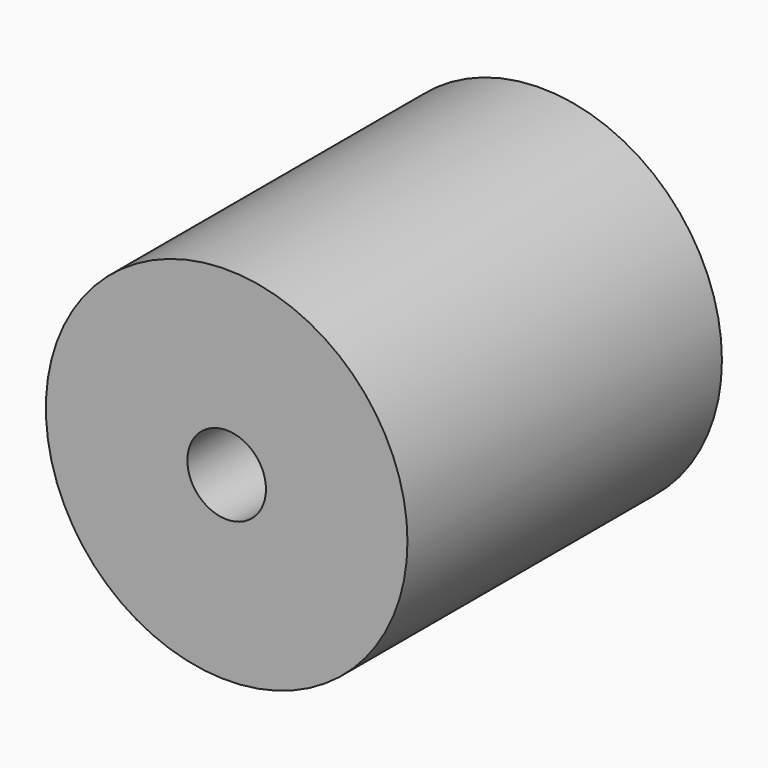
from build123d import *

# Parameters (mm, degrees)
F0_R     = 29.21
F1_DEPTH = 31.75
F0_R_2   = 6.35
F2_DEPTH = 31.75
F3_DEPTH = 31.75


with BuildPart() as f1:
    # F0 (on Front) → F1 (new body)
    with BuildSketch(Plane.XZ):
        Circle(F0_R)
        with BuildLine():
            ThreePointArc((21.5331844423, 10.8893924428), (23.4718197057, 5.5973725715), (24.13, 0))
            ThreePointArc((24.13, 0), (17.4832992726, -16.6310296298), (1.2049153298, -24.0998979053))
            ThreePointArc((1.2049153298, -24.0998979053), (-0.0651750036, -24.1299119812), (-1.3350846702, -24.0930373536))
            ThreePointArc((-1.3350846702, -24.0930373536), (-21.1740501638, -11.5722296754), (-20.9990868902, 11.8867678441))
            ThreePointArc((-20.9990868902, 11.8867678441), (-20.3436941865, 12.9765560472), (-19.6317982914, 14.030302771))
            ThreePointArc((-19.6317982914, 14.030302771), (0.5669275044, 24.1233391802), (20.2692187002, 13.0925808489))
            ThreePointArc((20.2692187002, 13.0925808489), (20.9302111052, 12.0076293701), (21.5331844423, 10.8893924428))
        make_face(mode=Mode.SUBTRACT)
    extrude(amount=F1_DEPTH)



with BuildPart() as f2:
    # F0 (on Front) → F2 (new body)
    with BuildSketch(Plane.XZ):
        with BuildLine():
            ThreePointArc((8.89, 0), (8.7360592676, 1.6472305465), (8.2795683975, 3.2374136516))
            ThreePointArc((8.2795683975, 3.2374136516), (7.7321419682, 4.3870355119), (7.026094307, 5.4466594156))
            ThreePointArc((7.026094307, 5.4466594156), (0.5769925697, 8.8712558059), (-6.2613755065, 6.310885577))
            ThreePointArc((-6.2613755065, 6.310885577), (-7.1044258576, 5.3440839471), (-7.7995628745, 4.2660191005))
            ThreePointArc((-7.7995628745, 4.2660191005), (-7.9668054392, -3.9448841673), (-1.3350846702, -8.7891779435))
            ThreePointArc((-1.3350846702, -8.7891779435), (-0.0657591783, -8.8897567869), (1.2049153298, -8.8079667942))
            ThreePointArc((1.2049153298, -8.8079667942), (6.6986490161, -5.8446729044), (8.89, 0))
        make_face()
        Circle(F0_R_2, mode=Mode.SUBTRACT)
    extrude(amount=F2_DEPTH)


with BuildPart() as f1_1:
    add(f1.part)

    add(f2.part)  # F3 merges F2
    # F0 (on Front) → F3 (join)
    with BuildSketch(Plane.XZ):
        with BuildLine():
            Line((-6.2613755065, 6.310885577), (-19.6317982914, 14.030302771))
            ThreePointArc((-19.6317982914, 14.030302771), (-20.3436941865, 12.9765560472), (-20.9990868902, 11.8867678441))
            Line((-20.9990868902, 11.8867678441), (-7.7995628745, 4.2660191005))
            ThreePointArc((-7.7995628745, 4.2660191005), (-7.1044258576, 5.3440839471), (-6.2613755065, 6.310885577))
        make_face()
        with BuildLine():
            ThreePointArc((-1.3350846702, -24.0930373536), (-0.0651750036, -24.1299119812), (1.2049153298, -24.0998979053))
            Line((1.2049153298, -24.0998979053), (1.2049153298, -8.8079667942))
            ThreePointArc((1.2049153298, -8.8079667942), (-0.0657591783, -8.8897567869), (-1.3350846702, -8.7891779435))
            Line((-1.3350846702, -8.7891779435), (-1.3350846702, -24.0930373536))
        make_face()
        with BuildLine():
            Line((8.2795683975, 3.2374136516), (21.5331844423, 10.8893924428))
            ThreePointArc((21.5331844423, 10.8893924428), (20.9302111052, 12.0076293701), (20.2692187002, 13.0925808489))
            Line((20.2692187002, 13.0925808489), (7.026094307, 5.4466594156))
            ThreePointArc((7.026094307, 5.4466594156), (7.7321419682, 4.3870355119), (8.2795683975, 3.2374136516))
        make_face()
        with BuildLine():
            ThreePointArc((-20.9990868902, 11.8867678441), (-21.1740501638, -11.5722296754), (-1.3350846702, -24.0930373536))
            Line((-1.3350846702, -24.0930373536), (-1.3350846702, -8.7891779435))
            ThreePointArc((-1.3350846702, -8.7891779435), (-7.9668054392, -3.9448841673), (-7.7995628745, 4.2660191005))
            Line((-7.7995628745, 4.2660191005), (-20.9990868902, 11.8867678441))
        make_face()
        with BuildLine():
            Line((7.026094307, 5.4466594156), (20.2692187002, 13.0925808489))
            ThreePointArc((20.2692187002, 13.0925808489), (0.5669275044, 24.1233391802), (-19.6317982914, 14.030302771))
            Line((-19.6317982914, 14.030302771), (-6.2613755065, 6.310885577))
            ThreePointArc((-6.2613755065, 6.310885577), (0.5769925697, 8.8712558059), (7.026094307, 5.4466594156))
        make_face()
        with BuildLine():
            ThreePointArc((1.2049153298, -24.0998979053), (17.4832992726, -16.6310296298), (24.13, 0))
            ThreePointArc((24.13, 0), (23.4718197057, 5.5973725715), (21.5331844423, 10.8893924428))
            Line((21.5331844423, 10.8893924428), (8.2795683975, 3.2374136516))
            ThreePointArc((8.2795683975, 3.2374136516), (8.7360592676, 1.6472305465), (8.89, 0))
            ThreePointArc((8.89, 0), (6.6986490161, -5.8446729044), (1.2049153298, -8.8079667942))
            Line((1.2049153298, -8.8079667942), (1.2049153298, -24.0998979053))
        make_face()
    extrude(amount=F3_DEPTH)

    # F4: F1 across plane


with BuildPart() as f1_2:
    add(f1_1.part)
    add(f1_1.part.mirror(Plane.XZ))


solid = f1_2.part
